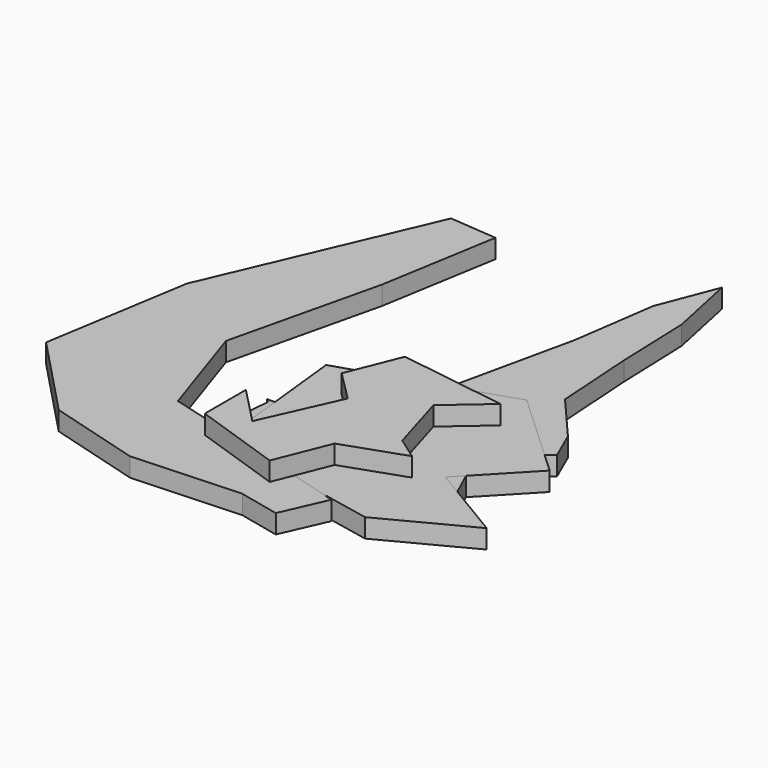
from build123d import *

# Parameters (mm, degrees)
PAD_DEPTH    = 5
PAD001_DEPTH = 5
PAD002_DEPTH = 5
PAD003_DEPTH = 5
PAD004_DEPTH = 5
PAD005_DEPTH = 10
PAD006_DEPTH = 5


with BuildPart() as body:
    # Sketch → Pad (new body)
    with BuildSketch(Plane.XY):
        Polygon((16.407789, 0), (14.20999, 9.292012), (7.459578, 7.408173), (-1.802612, 16.670362), (-17.344254, 4.268449), (-13.576584, -9.860312), (5.104784, -3.266889), (11.855196, -6.092639), align=None)
    extrude(amount=PAD_DEPTH)


with BuildPart() as body_1:
    # Body placement: moved
    add(body.part.moved(Location((17.344254, 9.860312, 0))))


with BuildPart() as body001:
    # Sketch002 → Pad001 (new body)
    with BuildSketch(Plane.XY):
        Polygon((0, 23.425846), (7.120159, 10.498806), (22.492847, 9.450668), (8.168289, -2.078853), (14.107744, -16.752783), (0, -10.114574), (-11.04756, -18.150301), (-7.903162, 0), (-19.083288, 10.498806), (-6.505643, 10.498806), align=None)
    extrude(amount=PAD001_DEPTH)


with BuildPart() as body001_1:
    # Body001 placement: moved
    add(body001.part.moved(Location((19.083288, 18.150301, 0))))


with BuildPart() as body002:
    # Sketch003 → Pad002 (new body)
    with BuildSketch(Plane.XY):
        Polygon((13.758363, 0), (12.01147, 9.80005), (-4.409369, 11.896324), (-28.516535, 11.896324), (-29.564672, 0), (-24.673361, -3.476364), (-26.769636, -16.752783), (-8.601904, -11.162712), (4.325122, -16.054022), (16.5534, -8.717056), (24.239746, -11.512094), (21.44471, -2.777609), align=None)
    extrude(amount=PAD002_DEPTH)


with BuildPart() as body002_1:
    # Body002 placement: moved
    add(body002.part.moved(Location((29.564672, 16.752783, 0))))


with BuildPart() as body003:
    # Sketch004 → Pad003 (new body)
    with BuildSketch(Plane.XY):
        Polygon((9.915189, -22.692234), (22.842228, -12.56023), (19.348436, -4.524508), (8.517671, 8.05315), (7.120159, 29.365294), (6.421397, 49.279919), (2.578223, 67.447647), (-3.361225, 52.074955), (-6.505643, 30.064049), (-15.93887, -12.909612), (-39.696674, -42.257477), (-11.39694, -59.027687), (20.745955, -46.450031), align=None)
    extrude(amount=PAD003_DEPTH)


with BuildPart() as body003_1:
    # Body003 placement: moved
    add(body003.part.moved(Location((39.696674, 59.027687, 0))))


with BuildPart() as body004:
    # Sketch005 → Pad004 (new body)
    with BuildSketch(Plane.XY):
        Polygon((13.408981, 0), (28.432302, 15.739498), (5.023878, 37.401024), (-37.251019, 23.775227), (-33.058464, -15.355267), (11.662088, -24.439129), (34.37175, -12.56023), align=None)
    extrude(amount=PAD004_DEPTH)


with BuildPart() as body004_1:
    # Body004 placement: moved
    add(body004.part.moved(Location((37.251019, 24.439129, 0))))


with BuildPart() as body005:
    # Sketch006 → Pad005 (new body)
    with BuildSketch(Plane.XY):
        Polygon((15.854637, -11.861474), (10.963326, 4.559358), (21.44471, 13.643224), (-7.204406, 17.835772), (-12.794459, 3.860602), (-4.75875, -4.175127), (-13.842596, -24.439129), (-23.625217, -14.307127), (-23.625217, -27.932922), (0, -35.968647), (5.722634, -21.644093), (21.794092, -16.054022), align=None)
    extrude(amount=PAD005_DEPTH)


with BuildPart() as body005_1:
    # Body005 placement: moved
    add(body005.part.moved(Location((23.625217, 35.968647, 0))))


with BuildPart() as body006:
    # Sketch007 → Pad006 (new body)
    with BuildSketch(Plane.XY):
        Polygon((22.492847, -7.66892), (-6.156262, -9.066438), (-30.61281, -2.078853), (-51.575577, 19.932053), (-45.286743, 58.713158), (-20.830187, 115.661995), (-8.252522, 114.613869), (-13.493215, 83.519096), (-22.926462, 43.689846), (-13.842596, 16.438253), (10.613945, 9.80005), (38.564285, 1.764321), (33.323612, -10.114574), align=None)
    extrude(amount=PAD006_DEPTH)


solid = Compound([body_1.part, body001_1.part, body002_1.part, body003_1.part, body004_1.part, body005_1.part, body006.part])
